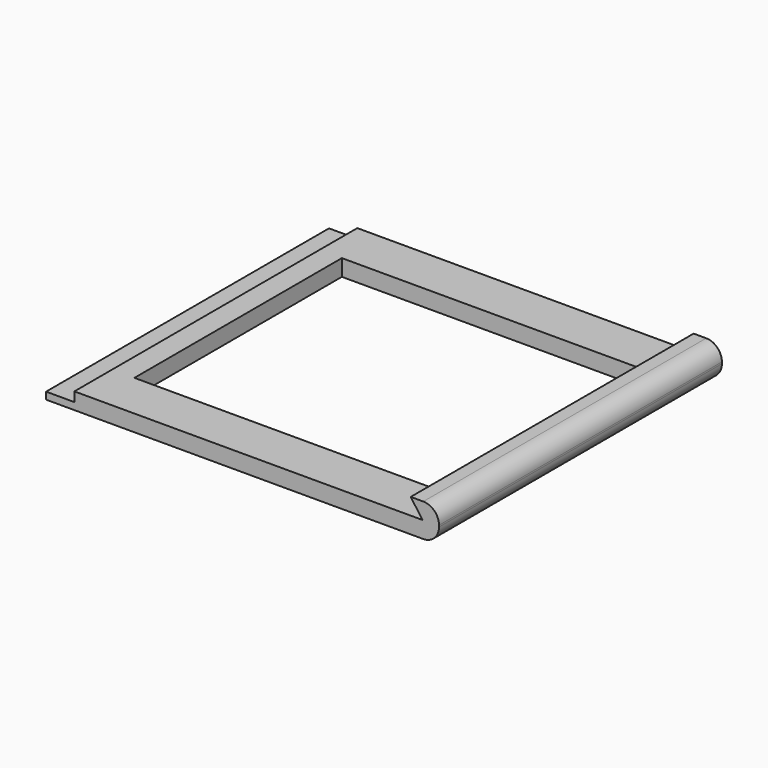
from build123d import *

# Parameters (mm, degrees)
F1_DEPTH = 45
F2_R     = 2
F3_W     = 40.303819
F3_H     = 33
F4_DEPTH = 2.1


with BuildPart() as f1:
    # F0 (on Front) → F1 (new body)
    with BuildSketch(Plane.XZ):
        Polygon((-6.300002, 0.9), (-9.900002, 0.9), (-9.900002, 0), (40.099998, 0), (40.099998, 2.1), (37.999998, 2.1), (-6.300002, 2.1), align=None)
        Polygon((37.999998, 2.1), (40.099998, 2.1), (40.099998, 4.2), (36.499998, 4.2), align=None)
    extrude(amount=F1_DEPTH)

    # F2
    f2_edges = [f1.edges().sort_by_distance(p)[0] for p in [
        (40.099998, -22.5, 4.2),
        (40.099998, -22.5, 0),
    ]]
    fillet(f2_edges, radius=F2_R)

    # F3 (on face) → F4 (cut)
    with BuildSketch(Plane.XY.offset(2.1)):
        with Locations((16.690705, -22.5)):
            Rectangle(F3_W, F3_H)
    extrude(amount=-F4_DEPTH, mode=Mode.SUBTRACT)


solid = f1.part
